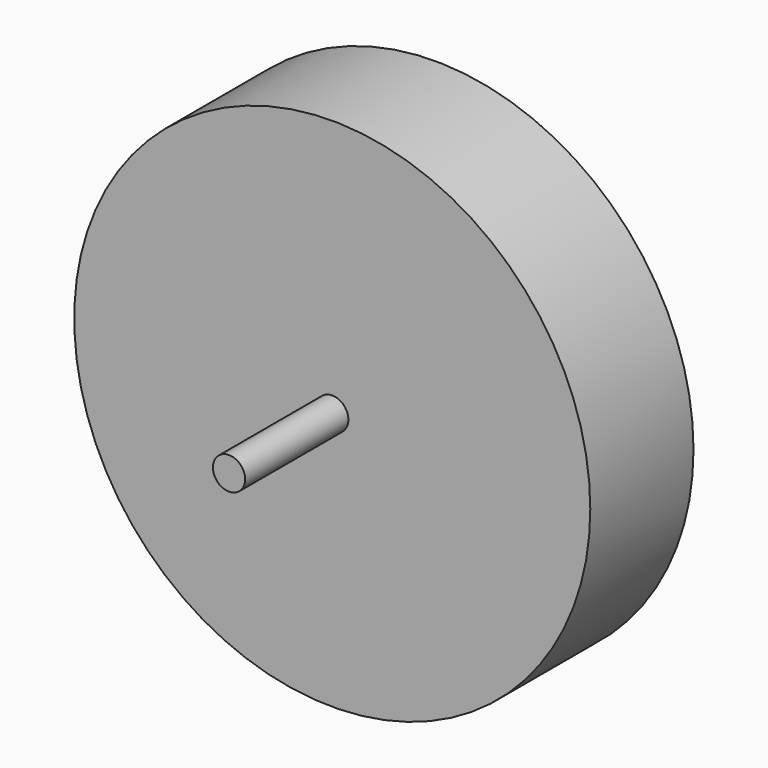
from build123d import *

# Parameters (mm, degrees)
F0_R     = 50.8
F2_DEPTH = 25.4
F1_R     = 3.175
F3_DEPTH = 50.8


with BuildPart() as f2:
    # F0 (on Front) → F2 (new body)
    with BuildSketch(Plane.XZ):
        Circle(F0_R)
    extrude(amount=F2_DEPTH)

    # F1 (on face) → F3 (join)
    with BuildSketch(Plane.XZ):
        Circle(F1_R)
    extrude(amount=F3_DEPTH)


solid = f2.part
